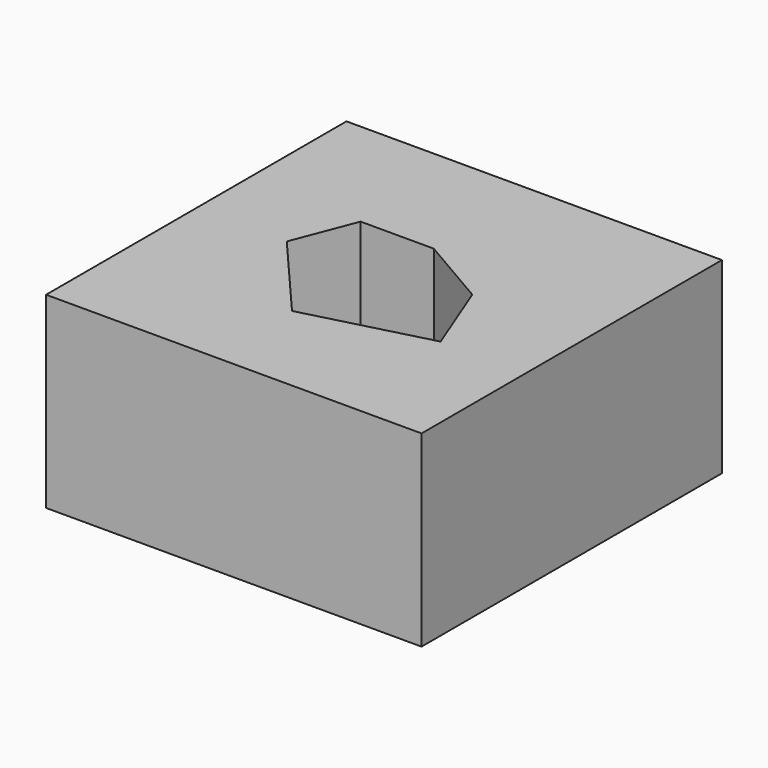
from build123d import *

# Parameters (mm, degrees)
F0_W     = 50.8
F0_H     = 50.8
F0_R     = 22.225
F1_DEPTH = 25.4


with BuildPart() as f1:
    # F0 (on Top) → F1 (new body)
    with BuildSketch(Plane.XY):
        Rectangle(F0_W, F0_H)
        Circle(F0_R, mode=Mode.SUBTRACT)
        Circle(F0_R)
        Polygon((-2.7903753798, -12.0724989101), (-13.1570640951, 0), (-9.9024055526, 8.4197903052), (0, 8.4197903052), (9.7460849211, 2.7542752214), (13.8445422053, -7.7329557389), align=None, mode=Mode.SUBTRACT)
    extrude(amount=F1_DEPTH)


solid = f1.part
